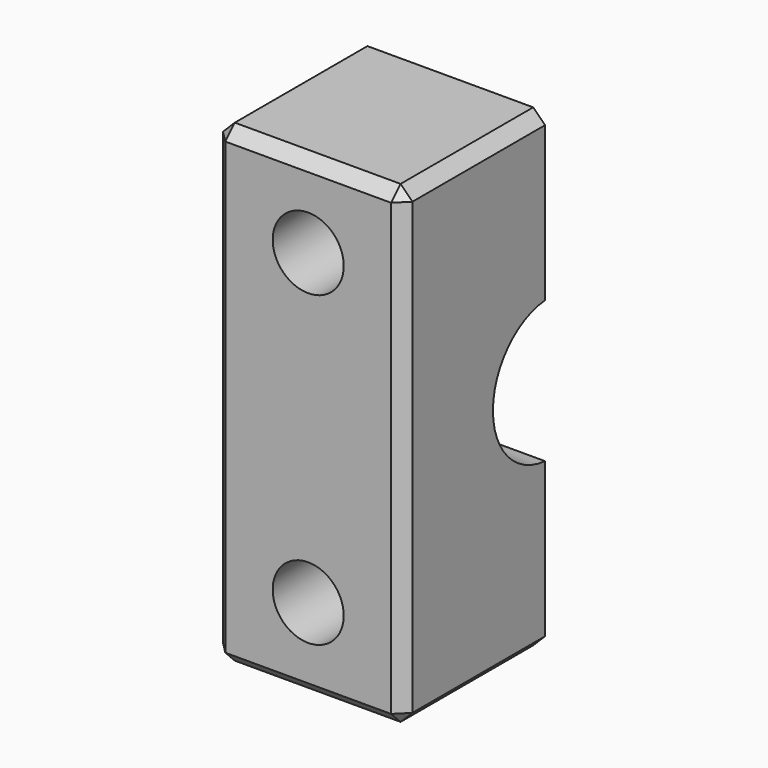
from build123d import *

# Parameters (mm, degrees)
F0_W     = 16
F0_H     = 40
F1_DEPTH = 15
F2_R     = 6
F3_DEPTH = 16.001
F4_R     = 3
F5_DEPTH = 15.001
F6_SIZE  = 1


with BuildPart() as f1:
    # F0 (on Front) → F1 (new body)
    with BuildSketch(Plane.XZ):
        Rectangle(F0_W, F0_H)
    extrude(amount=F1_DEPTH)

    # F2 (on face) → F3 (cut, through all)
    with BuildSketch(Plane(origin=(-8, 0, 0), x_dir=(0, -1, 0), z_dir=(-1, 0, 0))):
        with Locations((-0.5, 0)):
            Circle(F2_R)
    extrude(amount=-F3_DEPTH, mode=Mode.SUBTRACT)

    # F4 (on Front) → F5 (cut, through all)
    with BuildSketch(Plane.XZ):
        with Locations((0, 13)):
            Circle(F4_R)
        with Locations((0, -13)):
            Circle(F4_R)
    extrude(amount=F5_DEPTH, mode=Mode.SUBTRACT)

    # F6
    f6_edges = [f1.edges().sort_by_distance(p)[0] for p in [
        (8, -7.5, 20),
        (-8, -7.5, 20),
        (8, -7.5, -20),
        (-8, -7.5, -20),
        (-8, -15, 0),
        (0, -15, -20),
        (8, -15, 0),
        (0, -15, 20),
    ]]
    chamfer(f6_edges, length=F6_SIZE)


solid = f1.part
